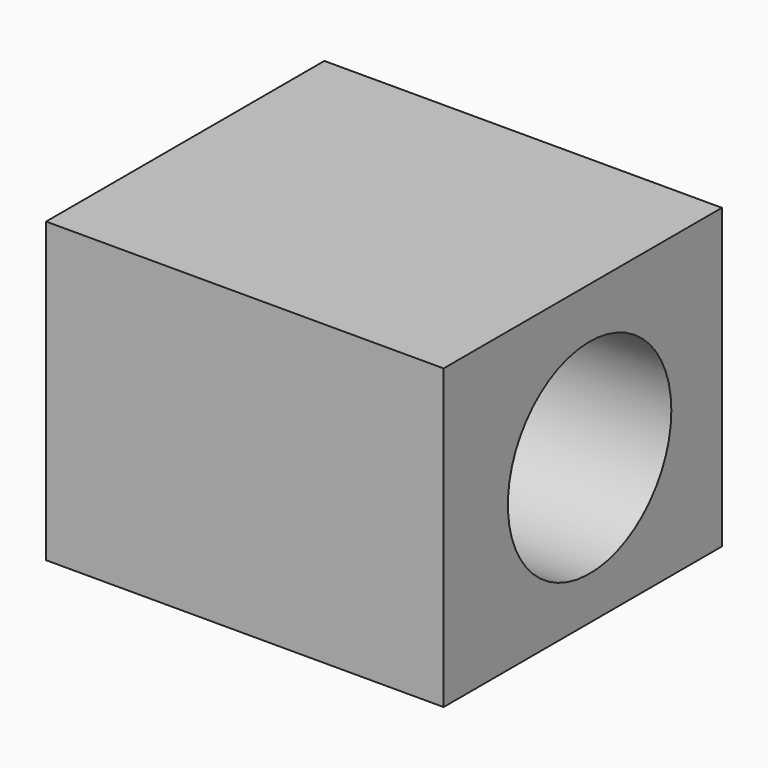
from build123d import *

# Parameters (mm, degrees)
F0_W      = 101.6
F0_H      = 76.2
F1_DEPTH  = 50.8
F1_FACE_W = 101.6
F1_FACE_H = 76.2
F2_DEPTH  = 38.1
F3_R      = 26.108539
F4_DEPTH  = 101.6


with BuildPart() as f1:
    # F0 (on Front) → F1 (new body)
    with BuildSketch(Plane.XZ):
        with Locations((50.8, 38.1)):
            Rectangle(F0_W, F0_H)
    extrude(amount=-F1_DEPTH)

    # F1_face (on face) → F2 (join)
    with BuildSketch(Plane(origin=(50.8, 0, 38.1), x_dir=(1, 0, 0), z_dir=(0, -1, 0))):
        Rectangle(F1_FACE_W, F1_FACE_H)
    extrude(amount=F2_DEPTH)

    # F3 (on face) → F4 (cut)
    with BuildSketch(Plane.YZ.offset(101.6)):
        with Locations((8.532524, 37.164632)):
            Circle(F3_R)
    extrude(amount=-F4_DEPTH, mode=Mode.SUBTRACT)


solid = f1.part
